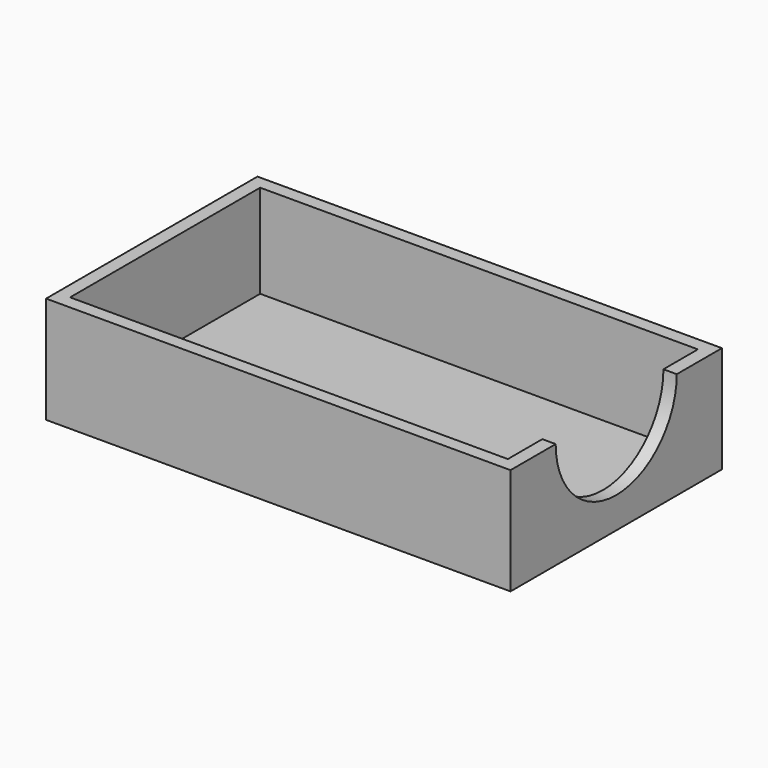
from build123d import *

# Parameters (mm, degrees)
F0_W     = 88.392
F0_H     = 50.292
F1_DEPTH = 20.32
F2_T     = -2.54
F4_DEPTH = 25.4


with BuildPart() as f1:
    # F0 (on Top) → F1 (new body)
    with BuildSketch(Plane.XY):
        with Locations((44.196, 25.146)):
            Rectangle(F0_W, F0_H)
    extrude(amount=F1_DEPTH)

    # F2
    f2_openings = [f1.faces().sort_by_distance(p)[0] for p in [
        (44.196, 25.146, 20.32),
    ]]
    offset(amount=F2_T, openings=f2_openings)

    # F3 (on face) → F4 (cut)
    with BuildSketch(Plane.YZ.offset(88.392)):
        with BuildLine():
            ThreePointArc((10.742303, 20.32), (25.146, 5.916303), (39.549697, 20.32))
            Line((39.549697, 20.32), (10.742303, 20.32))
        make_face()
    extrude(amount=-F4_DEPTH, mode=Mode.SUBTRACT)


solid = f1.part
